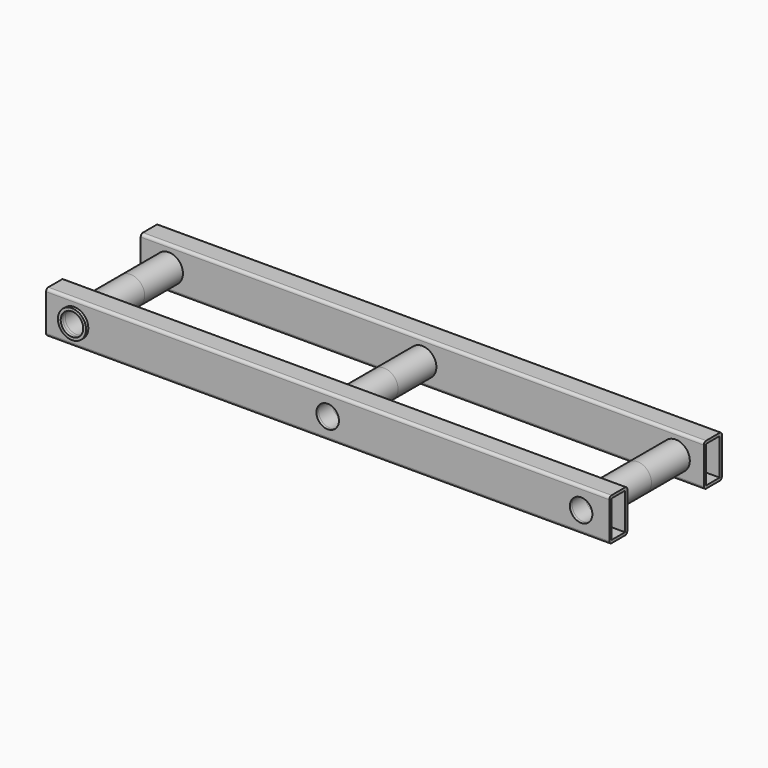
from build123d import *

# Parameters (mm, degrees)
F0_W          = 60
F0_H          = 130
F1_DEPTH      = 1000
F2_R          = 50
F2_R_2        = 40
F3_DEPTH      = 250
F3_DEPTH_BACK = 250
F4_DEPTH      = 250.001
F4_DEPTH_BACK = 250.001
F5_START      = 250
F5_DEPTH      = 10


with BuildPart() as f1:
    # F0 (on Right) → F1 (new body, symmetric)
    with BuildSketch(Plane.YZ):
        with BuildLine():
            Line((-240, -75), (-180, -75))
            ThreePointArc((-180, -75), (-172.9289321881, -72.0710678119), (-170, -65))
            Line((-170, -65), (-170, 65))
            ThreePointArc((-170, 65), (-172.9289321881, 72.0710678119), (-180, 75))
            Line((-180, 75), (-240, 75))
            ThreePointArc((-240, 75), (-247.0710678119, 72.0710678119), (-250, 65))
            Line((-250, 65), (-250, -65))
            ThreePointArc((-250, -65), (-247.0710678119, -72.0710678119), (-240, -75))
        make_face()
        with Locations((-210, 0)):
            Rectangle(F0_W, F0_H, mode=Mode.SUBTRACT)
    extrude(amount=F1_DEPTH, both=True)



with BuildPart() as f1b:
    # F0 (on Right) → F1, piece 2 (new body, symmetric)
    with BuildSketch(Plane.YZ):
        with BuildLine():
            ThreePointArc((250, 65), (247.0710678119, 72.0710678119), (240, 75))
            Line((240, 75), (180, 75))
            ThreePointArc((180, 75), (172.9289321881, 72.0710678119), (170, 65))
            Line((170, 65), (170, -65))
            ThreePointArc((170, -65), (172.9289321881, -72.0710678119), (180, -75))
            Line((180, -75), (240, -75))
            ThreePointArc((240, -75), (247.0710678119, -72.0710678119), (250, -65))
            Line((250, -65), (250, 65))
        make_face()
        with Locations((210, 0)):
            Rectangle(F0_W, F0_H, mode=Mode.SUBTRACT)
    extrude(amount=F1_DEPTH, both=True)


with BuildPart() as f1_1:
    add(f1.part)

    add(f1b.part)  # F3 merges F1b
    # F2 (on Front) → F3 (join, two sides)
    with BuildSketch(Plane.XZ) as f3_sk:
        with Locations((900, 0)):
            Circle(F2_R)
        with Locations((900, 0)):
            Circle(F2_R_2, mode=Mode.SUBTRACT)
        Circle(F2_R)
        Circle(F2_R_2, mode=Mode.SUBTRACT)
        with Locations((-900, 0)):
            Circle(F2_R)
        with Locations((-900, 0)):
            Circle(F2_R_2, mode=Mode.SUBTRACT)
    extrude(amount=F3_DEPTH)
    extrude(f3_sk.sketch, amount=-F3_DEPTH_BACK)

    # F2 (on Front) → F4 (cut, two sides)
    with BuildSketch(Plane.XZ) as f4_sk:
        with Locations((900, 0)):
            Circle(F2_R_2)
        Circle(F2_R_2)
        with Locations((-900, 0)):
            Circle(F2_R_2)
    extrude(amount=-F4_DEPTH, mode=Mode.SUBTRACT)
    extrude(f4_sk.sketch, amount=F4_DEPTH_BACK, mode=Mode.SUBTRACT)

    # F2 (on Front) → F5 (join)
    with BuildSketch(Plane.XZ.offset(F5_START)):
        with Locations((-900, 0)):
            Circle(F2_R)
        with Locations((-900, 0)):
            Circle(F2_R_2, mode=Mode.SUBTRACT)
    extrude(amount=F5_DEPTH)


solid = f1_1.part
